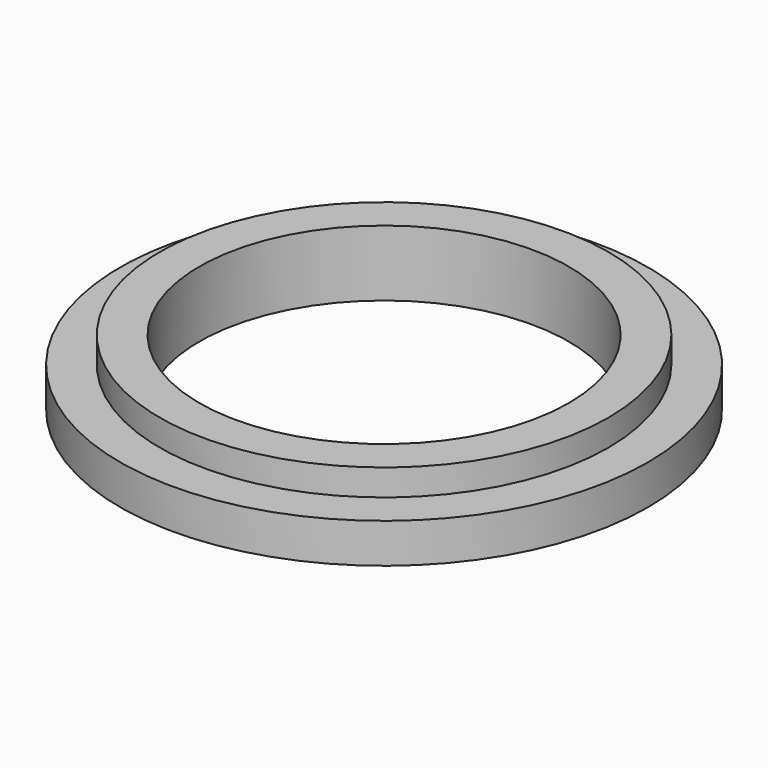
from build123d import *

# Parameters (mm, degrees)
CYLINDER020_R     = 14
CYLINDER020_DEPTH = 5
CYLINDER018_R     = 20
CYLINDER018_DEPTH = 3
CYLINDER019_R     = 17
CYLINDER019_DEPTH = 5


with BuildPart() as cylinder004:
    # Cylinder020 → Cylinder020 (new body)
    with BuildSketch(Plane.XY):
        Circle(CYLINDER020_R)
    extrude(amount=CYLINDER020_DEPTH)


with BuildPart() as cylinder002:
    # Cylinder018 → Cylinder018 (new body)
    with BuildSketch(Plane.XY):
        Circle(CYLINDER018_R)
    extrude(amount=CYLINDER018_DEPTH)


with BuildPart() as cut031:
    # Cylinder019 → Cylinder019 (new body)
    with BuildSketch(Plane.XY):
        Circle(CYLINDER019_R)
    extrude(amount=CYLINDER019_DEPTH)

    # Fusion024: union Cylinder002
    add(cylinder002.part)

    # Cut031: cut Cylinder004
    add(cylinder004.part, mode=Mode.SUBTRACT)


with BuildPart() as cut031_1:
    # Cut031 placement: moved
    add(cut031.part.moved(Location((0, 0, 10))))


solid = cut031_1.part
